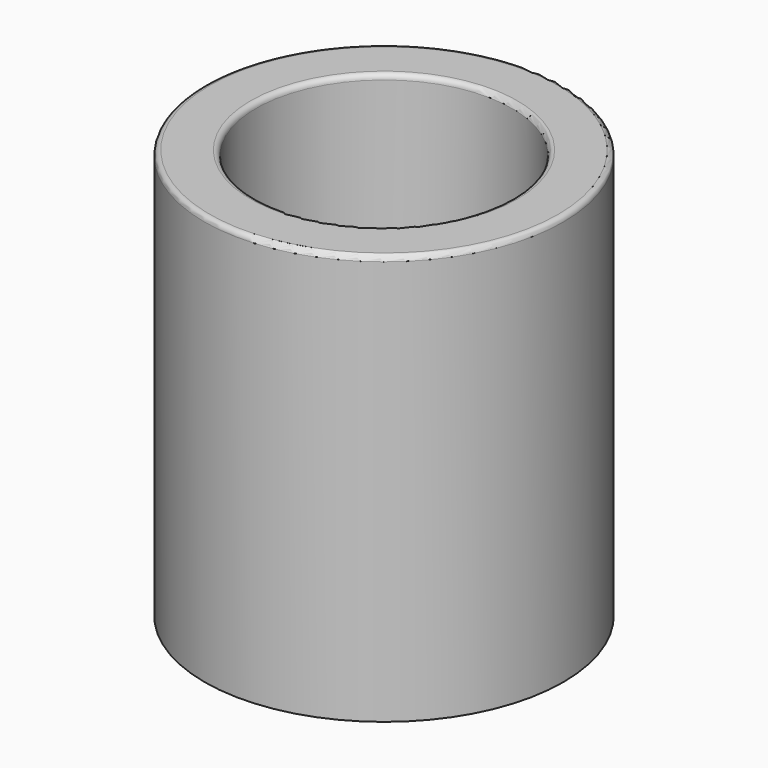
from build123d import *

# Parameters (mm, degrees)
F0_R     = 22.225
F1_DEPTH = 50.8
F2_T     = -6.35
F3_R     = 0.635


with BuildPart() as f1:
    # F0 (on Top) → F1 (new body)
    with BuildSketch(Plane.XY):
        Circle(F0_R)
    extrude(amount=F1_DEPTH)

    # F2
    f2_openings = [f1.faces().sort_by_distance(p)[0] for p in [
        (0, 0, 50.8),
        (0, 0, 0),
    ]]
    offset(amount=F2_T, openings=f2_openings)

    # F3
    f3_edges = [f1.edges().sort_by_distance(p)[0] for p in [
        (-22.225, 0, 50.8),
        (-15.875, 0, 50.8),
    ]]
    fillet(f3_edges, radius=F3_R)


solid = f1.part
